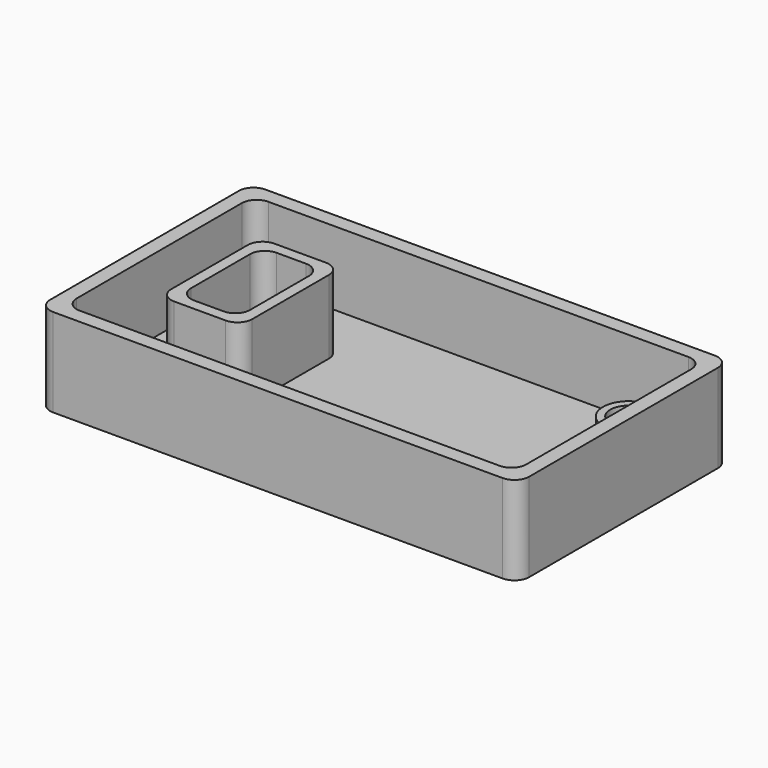
from build123d import *

# Parameters (mm, degrees)
SKETCH_W         = 65
SKETCH_H         = 36
PAD_DEPTH        = 2
SKETCH001_W      = 65
SKETCH001_H      = 36
SKETCH001_W_2    = 61
SKETCH001_H_2    = 32
PAD001_DEPTH     = 10
SKETCH002_R      = 3.5
PAD002_DEPTH     = 5
HOLE_D           = 5
HOLE_CSINK_D     = 5.2
HOLE_CSINK_ANGLE = 8
SKETCH003_W      = 8
SKETCH003_H      = 14
POCKET_DEPTH     = 12.001
SKETCH004_W      = 11
SKETCH004_H      = 17
SKETCH004_W_2    = 8
SKETCH004_H_2    = 14
PAD003_DEPTH     = 10
FILLET_R         = 2


with BuildPart() as part:
    # Sketch → Pad (new body)
    with BuildSketch(Plane.XY):
        Rectangle(SKETCH_W, SKETCH_H)
    extrude(amount=PAD_DEPTH)

    # Sketch001 → Pad001 (join)
    with BuildSketch(Plane.XY.offset(2)):
        Rectangle(SKETCH001_W, SKETCH001_H)
        Rectangle(SKETCH001_W_2, SKETCH001_H_2, mode=Mode.SUBTRACT)
    extrude(amount=PAD001_DEPTH)

    # Sketch002 → Pad002 (join)
    with BuildSketch(Plane.XY):
        with Locations((-26.5, 12.1)):
            Circle(SKETCH002_R)
        with Locations((-21.1, -12.2)):
            Circle(SKETCH002_R)
        with Locations((23.7, 11.9)):
            Circle(SKETCH002_R)
        with Locations((18.1, -12.2)):
            Circle(SKETCH002_R)
    extrude(amount=PAD002_DEPTH)

    # Hole (through all)
    with Locations(Plane(origin=(0, 0, 0), x_dir=(1, 0, 0), z_dir=(0, 0, -1))):
        with Locations((-26.5, -12.1), (-21.1, 12.2), (23.7, -11.9), (18.1, 12.2)):
            CounterSinkHole(HOLE_D / 2, HOLE_CSINK_D / 2, counter_sink_angle=HOLE_CSINK_ANGLE)

    # Sketch003 → Pocket (cut, through all)
    with BuildSketch(Plane.XY):
        with Locations((-18.5, 0.4)):
            Rectangle(SKETCH003_W, SKETCH003_H)
    extrude(amount=POCKET_DEPTH, mode=Mode.SUBTRACT)

    # Sketch004 → Pad003 (join)
    with BuildSketch(Plane.XY.offset(2)):
        with Locations((-18.5, 0.4)):
            Rectangle(SKETCH004_W, SKETCH004_H)
        with Locations((-18.5, 0.4)):
            Rectangle(SKETCH004_W_2, SKETCH004_H_2, mode=Mode.SUBTRACT)
    extrude(amount=PAD003_DEPTH)

    # Fillet
    fillet_edges = [part.edges().sort_by_distance(p)[0] for p in [
        (-32.5, -18, 7),
        (-30.5, -16, 7),
        (-32.5, 18, 7),
        (-30.5, 16, 7),
        (32.5, -18, 7),
        (30.5, -16, 7),
        (30.5, 16, 7),
        (32.5, 18, 7),
        (-13, -8.1, 7),
        (-24, -8.1, 7),
        (-22.5, -6.6, 7),
        (-14.5, -6.6, 7),
        (-24, 8.9, 7),
        (-22.5, 7.4, 7),
        (-13, 8.9, 7),
        (-14.5, 7.4, 7),
    ]]
    fillet(fillet_edges, radius=FILLET_R)


solid = part.part
